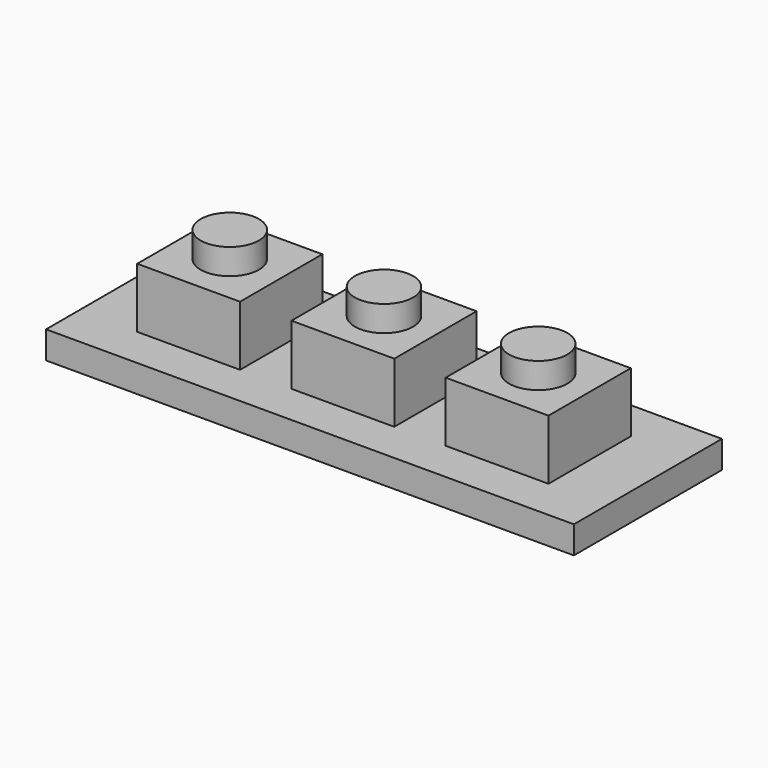
from build123d import *

# Parameters (mm, degrees)
SKETCH_W     = 30.8
SKETCH_H     = 10.8
PAD_DEPTH    = 1.6
SKETCH001_W  = 6
SKETCH001_H  = 6
PAD001_DEPTH = 3.5
SKETCH002_R  = 1.7
PAD002_DEPTH = 1.5


with BuildPart() as part:
    # Sketch → Pad (new body)
    with BuildSketch(Plane.XY):
        Rectangle(SKETCH_W, SKETCH_H)
    extrude(amount=-PAD_DEPTH)

    # Sketch001 → Pad001 (new body)
    with BuildSketch(Plane.XY):
        with Locations((-9, 0)):
            Rectangle(SKETCH001_W, SKETCH001_H)
        Rectangle(SKETCH001_W, SKETCH001_H)
        with Locations((9, 0)):
            Rectangle(SKETCH001_W, SKETCH001_H)
    extrude(amount=PAD001_DEPTH)

    # Sketch002 → Pad002 (new body)
    with BuildSketch(Plane.XY.offset(3.5)):
        with Locations((-9, 0)):
            Circle(SKETCH002_R)
        Circle(SKETCH002_R)
        with Locations((9, 0)):
            Circle(SKETCH002_R)
    extrude(amount=PAD002_DEPTH)


solid = part.part
